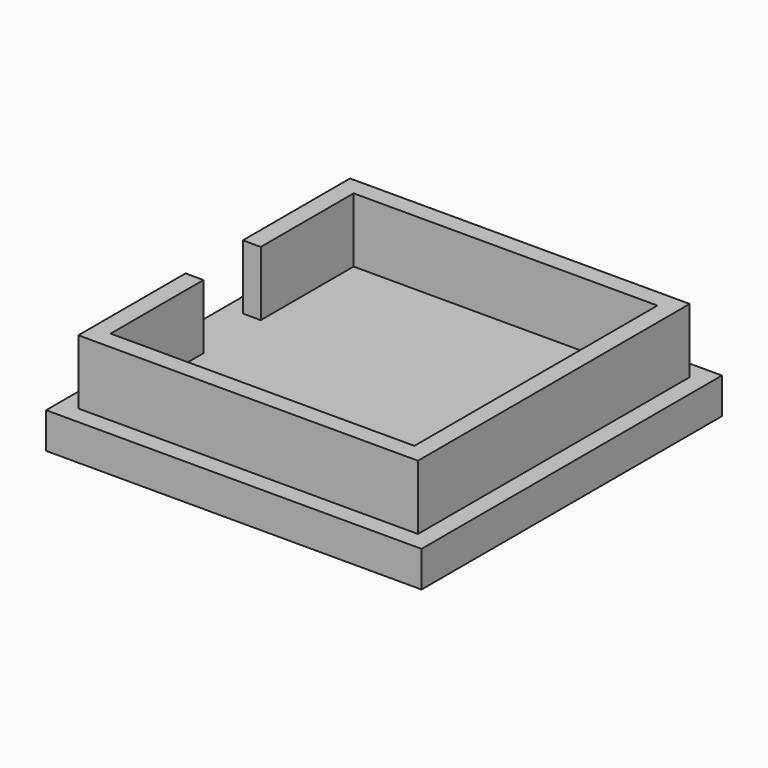
from build123d import *

# Parameters (mm, degrees)
F1_DEPTH = 9
F2_W     = 52.4
F2_H     = 52.4
F3_DEPTH = 5


with BuildPart() as f1:
    # F0 (on Top) → F1 (new body)
    with BuildSketch(Plane.XY):
        Polygon((-21.2, 21.2), (21.2, 21.2), (21.2, -21.2), (-21.2, -21.2), (-21.2, -5), (-23.7, -5), (-23.7, -23.7), (23.7, -23.7), (23.7, 23.7), (-23.7, 23.7), (-23.7, 5), (-21.2, 5), align=None)
    extrude(amount=F1_DEPTH)

    # F2 (on Top) → F3 (join)
    with BuildSketch(Plane.XY):
        Rectangle(F2_W, F2_H)
    extrude(amount=-F3_DEPTH)


solid = f1.part
